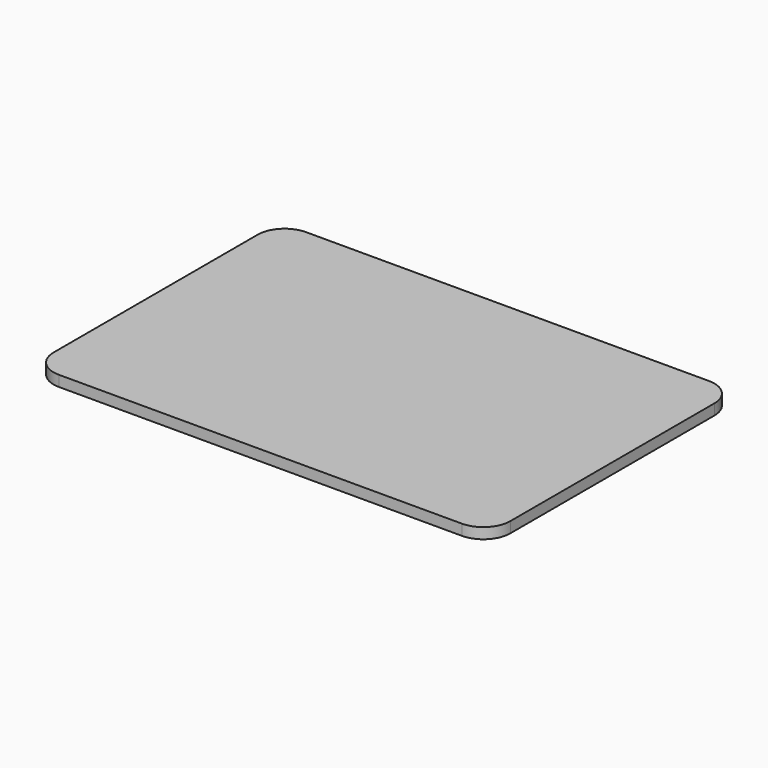
from build123d import *

# Parameters (mm, degrees)
PAD_DEPTH = 2


with BuildPart() as part:
    # Sketch → Pad (new body)
    with BuildSketch(Plane.XY):
        with BuildLine():
            ThreePointArc((0, 52.5), (-3.535534, 51.035534), (-5, 47.5))
            Line((-5, 0), (-5, 47.5))
            ThreePointArc((-5, 0), (-3.535534, -3.535534), (0, -5))
            Line((75, -5), (0, -5))
            ThreePointArc((75, -5), (78.535534, -3.535534), (80, 0))
            Line((80, 47.5), (80, 0))
            ThreePointArc((80, 47.5), (78.535534, 51.035534), (75, 52.5))
            Line((0, 52.5), (75, 52.5))
        make_face()
    extrude(amount=PAD_DEPTH)


solid = part.part
